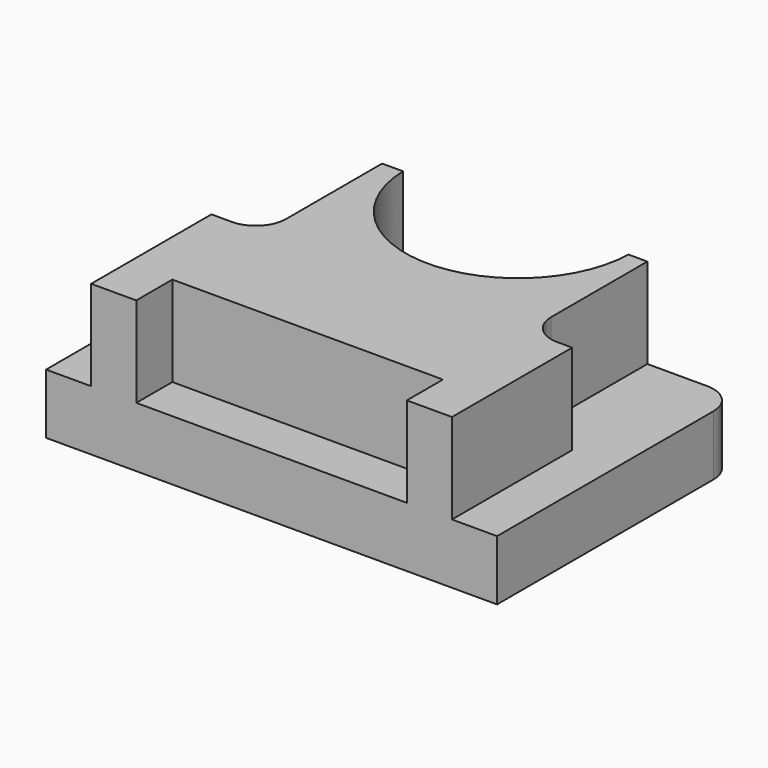
from build123d import *

# Parameters (mm, degrees)
F0_W     = 76.2
F0_H     = 50.8
F1_DEPTH = 10.16
F2_W     = 60.96
F2_H     = 50.8
F3_DEPTH = 25.4
F5_DEPTH = 25.401
F4_W     = 8.5195787251
F4_H     = 25.4
F4_W_2   = 7.62
F4_W_3   = 45.72
F4_H_2   = 7.62
F6_DEPTH = 15.24
F7_R     = 5.08
F8_R     = 5.08
F9_R     = 5.08


with BuildPart() as f1:
    # F0 (on Top) → F1 (new body)
    with BuildSketch(Plane.XY):
        with Locations((-12.131340879, 25.4)):
            Rectangle(F0_W, F0_H)
    extrude(amount=F1_DEPTH)

    # F2 (on Top) → F3 (join)
    with BuildSketch(Plane.XY):
        with Locations((-12.131340879, 25.4)):
            Rectangle(F2_W, F2_H)
    extrude(amount=F3_DEPTH)

    # F4 (on face) → F5 (cut, through all)
    with BuildSketch(Plane.XY.offset(25.4)):
        with BuildLine():
            Line((7.5301669641, 50.8), (-30.5567246034, 50.8))
            ThreePointArc((-30.5567246034, 50.8), (-11.5132788196, 32.2496725738), (7.5301669641, 50.8))
        make_face()
        with BuildLine():
            ThreePointArc((7.5367211804, 51.2996725738), (-11.7631365985, 70.3480339493), (-30.5567246034, 50.8))
            Line((-30.5567246034, 50.8), (7.5301669641, 50.8))
            ThreePointArc((7.5301669641, 50.8), (7.5350825558, 51.0498147949), (7.5367211804, 51.2996725738))
        make_face()
    extrude(amount=-F5_DEPTH, mode=Mode.SUBTRACT)

    # F4 (on face) → F6 (cut, through all)
    with BuildSketch(Plane.XY.offset(25.4)):
        with Locations((-38.3515515165, 38.1)):
            Rectangle(F4_W, F4_H)
        with Locations((14.538659121, 38.1)):
            Rectangle(F4_W_2, F4_H)
        with Locations((-12.131340879, 3.81)):
            Rectangle(F4_W_3, F4_H_2)
    extrude(amount=-F6_DEPTH, mode=Mode.SUBTRACT)

    # F7
    f7_edges = [f1.edges().sort_by_distance(p)[0] for p in [
        (-50.231341, 50.8, 5.08),
    ]]
    fillet(f7_edges, radius=F7_R)

    # F8
    f8_edges = [f1.edges().sort_by_distance(p)[0] for p in [
        (25.968659, 50.8, 5.08),
    ]]
    fillet(f8_edges, radius=F8_R)

    # F9
    f9_edges = [f1.edges().sort_by_distance(p)[0] for p in [
        (-34.091762, 25.4, 17.78),
        (10.728659, 25.4, 17.78),
    ]]
    fillet(f9_edges, radius=F9_R)


solid = f1.part
